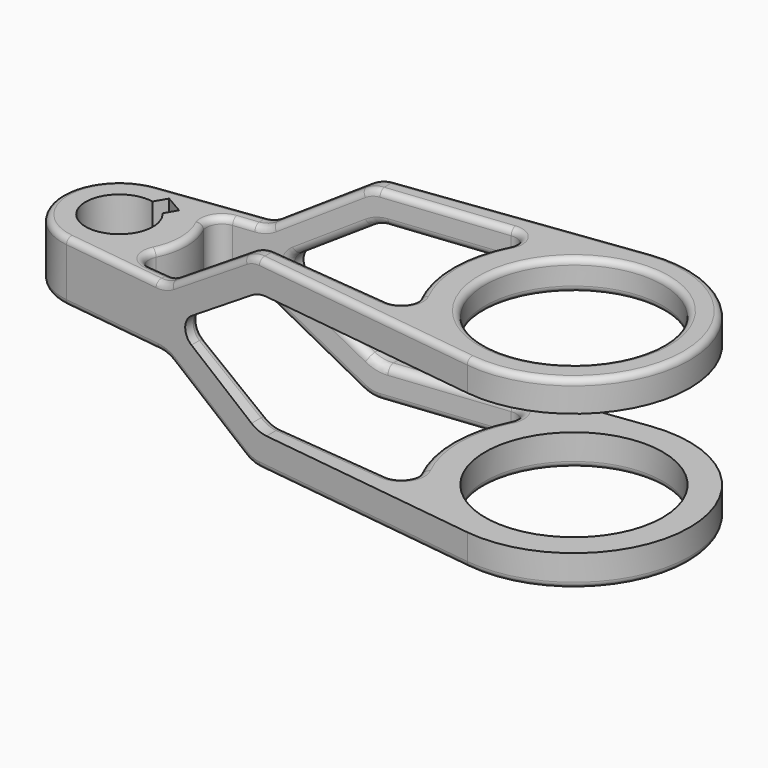
from build123d import *

# Parameters (mm, degrees)
SKETCH_R     = 36.83
PAD_DEPTH    = 57.15
PAD001_DEPTH = 63.5
FILLET_R     = 3.175
FILLET001_R  = 2.54
FILLET002_R  = 2.54
FILLET003_R  = 2.54
FILLET004_R  = 2.54
FILLET005_R  = 2.54
FILLET006_R  = 2.54
FILLET007_R  = 2.54


with BuildPart() as body:
    # Sketch → Pad (new body, symmetric)
    with BuildSketch(Plane.XY):
        with BuildLine():
            ThreePointArc((-3.054675, 23.55999), (-23.757192, 0), (-3.054675, -23.55999))
            Line((-3.054675, -23.55999), (182.414116, -47.607498))
            ThreePointArc((182.414116, -47.607498), (236.592808, 0), (182.414116, 47.607498))
            Line((-3.054675, 23.55999), (182.414116, 47.607498))
        make_face()
        with Locations((188.586808, 0)):
            Circle(SKETCH_R, mode=Mode.SUBTRACT)
        with BuildLine():
            ThreePointArc((2.772505, 13.692119), (-6.985, -12.098375), (10.47147, 9.247119))
            Line((13.372578, 14.271984), (10.47147, 9.247119))
            Line((5.673612, 18.716984), (13.372578, 14.271984))
            Line((2.772505, 13.692119), (5.673612, 18.716984))
        make_face(mode=Mode.SUBTRACT)
        with BuildLine():
            ThreePointArc((25.094194, -12.297493), (27.945427, 0), (25.094194, 12.297493))
            ThreePointArc((30.519645, 20.60848), (25.838677, 17.737865), (25.094194, 12.297493))
            Line((30.519645, 20.60848), (136.887016, 32.115447))
            ThreePointArc((143.303098, 22.84938), (142.850028, 29.390032), (136.887016, 32.115447))
            ThreePointArc((143.303098, 22.84938), (137.864933, 0), (143.303098, -22.84938))
            ThreePointArc((136.941819, -32.121138), (142.865662, -29.367349), (143.303098, -22.84938))
            Line((30.218663, -21.502355), (136.941819, -32.121138))
            ThreePointArc((25.094194, -12.297493), (25.249692, -18.239786), (30.218663, -21.502355))
        make_face(mode=Mode.SUBTRACT)
    extrude(amount=PAD_DEPTH, both=True)


with BuildPart() as body001:
    # Sketch001 → Pad001 (new body, symmetric)
    with BuildSketch(Plane.XZ):
        with BuildLine():
            Line((38.731513, 10.587476), (-28.893663, 10.587476))
            ThreePointArc((-28.893663, 10.587476), (-30.95339, 9.734309), (-31.806557, 7.674582))
            Line((-31.806557, 7.674582), (-31.806557, -11.429043))
            ThreePointArc((-31.806557, -11.429043), (-30.90281, -13.61088), (-28.720973, -14.514627))
            Line((-28.720973, -14.514627), (39.699651, -14.514627))
            ThreePointArc((46.616567, -16.563511), (43.306646, -15.037616), (39.699651, -14.514627))
            Line((46.616567, -16.563511), (79.597075, -37.981303))
            ThreePointArc((79.597075, -37.981303), (82.906995, -39.507197), (86.51399, -40.030186))
            Line((86.51399, -40.030186), (246.673922, -40.030186))
            ThreePointArc((246.673922, -40.030186), (247.422175, -39.72025), (247.732111, -38.971998))
            Line((247.732111, -38.971998), (247.732111, -29.800125))
            ThreePointArc((247.732111, -29.800125), (246.867203, -27.712053), (244.779132, -26.847145))
            Line((244.779132, -26.847145), (89.494015, -26.847145))
            ThreePointArc((82.577099, -24.798261), (85.88702, -26.324156), (89.494015, -26.847145))
            Line((82.577099, -24.798261), (54.759428, -6.733255))
            ThreePointArc((54.759428, 3.917861), (51.867886, -1.407697), (54.759428, -6.733255))
            Line((54.759428, 3.917861), (82.577099, 21.982868))
            ThreePointArc((89.494015, 24.031752), (85.88702, 23.508762), (82.577099, 21.982868))
            Line((89.494015, 24.031752), (247.447896, 24.031752))
            ThreePointArc((247.447896, 24.031752), (247.746141, 24.155289), (247.869678, 24.453533))
            Line((247.869678, 24.453533), (247.869678, 31.713326))
            ThreePointArc((247.869678, 31.713326), (246.399815, 35.261889), (242.851253, 36.731752))
            Line((242.851253, 36.731752), (86.51399, 36.731752))
            ThreePointArc((86.51399, 36.731752), (82.906995, 36.208762), (79.597075, 34.682868))
            Line((79.597075, 34.682868), (45.648429, 12.636359))
            ThreePointArc((38.731513, 10.587476), (42.338508, 11.110465), (45.648429, 12.636359))
        make_face()
    extrude(amount=PAD001_DEPTH, both=True)

    # Boolean: intersect Body
    add(body.part, mode=Mode.INTERSECT)

    # Fillet
    fillet_edges = [body001.edges().sort_by_distance(p)[0] for p in [
        (68.668264, 24.73545, -15.765758),
    ]]
    fillet(fillet_edges, radius=FILLET_R)

    # Fillet001
    fillet001_edges = [body001.edges().sort_by_distance(p)[0] for p in [
        (111.700503, 29.390736, 36.731752),
    ]]
    fillet(fillet001_edges, radius=FILLET001_R)

    # Fillet002
    fillet002_edges = [body001.edges().sort_by_distance(p)[0] for p in [
        (151.756808, 0, 36.731752),
    ]]
    fillet(fillet002_edges, radius=FILLET002_R)

    # Fillet003
    fillet003_edges = [body001.edges().sort_by_distance(p)[0] for p in [
        (151.756808, 0, 24.031752),
    ]]
    fillet(fillet003_edges, radius=FILLET003_R)

    # Fillet004
    fillet004_edges = [body001.edges().sort_by_distance(p)[0] for p in [
        (134.464053, 41.39039, 36.731752),
    ]]
    fillet(fillet004_edges, radius=FILLET004_R)

    # Fillet005
    fillet005_edges = [body001.edges().sort_by_distance(p)[0] for p in [
        (134.464053, -41.39039, -40.030186),
    ]]
    fillet(fillet005_edges, radius=FILLET005_R)

    # Fillet006
    fillet006_edges = [body001.edges().sort_by_distance(p)[0] for p in [
        (27.945427, 0, -14.514627),
    ]]
    fillet(fillet006_edges, radius=FILLET006_R)

    # Fillet007
    fillet007_edges = [body001.edges().sort_by_distance(p)[0] for p in [
        (86.51399, -31.134106, -40.030186),
        (111.602162, -32.152425, -40.030186),
        (134.627352, -38.850302, -40.030186),
        (144.960105, -30.804329, -40.030186),
        (234.052808, 0, -40.030186),
        (140.404933, 0, -40.030186),
        (134.627352, 38.850302, -40.030186),
        (144.938279, 30.835995, -40.030186),
        (86.51399, 30.916433, -40.030186),
        (111.56391, 31.930779, -40.030186),
        (151.756808, 0, -40.030186),
    ]]
    fillet(fillet007_edges, radius=FILLET007_R)


solid = body001.part
